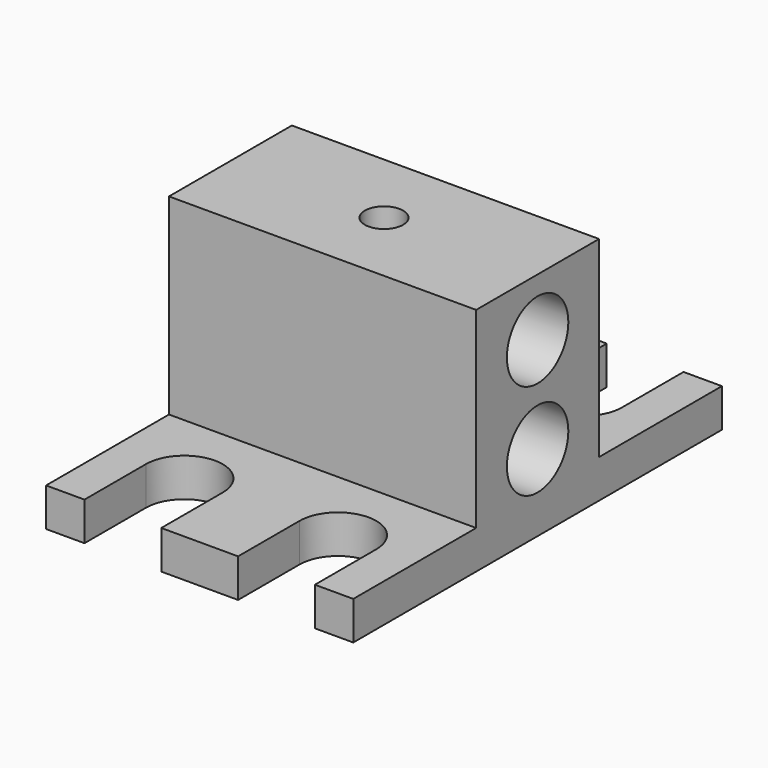
from build123d import *

# Parameters (mm, degrees)
SKETCH_R         = 3.175
PAD_DEPTH        = 25.4
SKETCH001_R      = 1.5875
POCKET_DEPTH     = 4.7625
HOLE_D           = 3.18262
HOLE_DEPTH       = 14.2875
HOLE_CBORE_D     = 6.35
HOLE_CBORE_DEPTH = 10.16
POCKET001_DEPTH  = 5
SKETCH004_R      = 1.6859
HOLE001_DEPTH    = 8.89


with BuildPart() as part:
    # Sketch → Pad (new body)
    with BuildSketch(Plane.YZ):
        Polygon((-19.05, 0), (19.05, 0), (19.05, 3.175), (6.35, 3.175), (6.35, 19.05), (-6.35, 19.05), (-6.35, 3.175), (-19.05, 3.175), align=None)
        with Locations((0, 6.35)):
            Circle(SKETCH_R, mode=Mode.SUBTRACT)
    extrude(amount=PAD_DEPTH)

    # Sketch001 (on Face5 of Pad) → Pocket (cut)
    with BuildSketch(Plane(origin=(0, 0, 19.05), x_dir=(0, -1, 0), z_dir=(0, 0, 1))):
        with Locations((0, 12.7)):
            Circle(SKETCH001_R)
    extrude(amount=-POCKET_DEPTH, mode=Mode.SUBTRACT)

    # Hole
    with Locations(Plane.YZ.offset(25.4)):
        with Locations((0, 14.2875)):
            CounterBoreHole(HOLE_D / 2, HOLE_CBORE_D / 2, HOLE_CBORE_DEPTH, depth=HOLE_DEPTH)

    # Sketch003 (on Face7 of Hole) → Pocket001 (cut)
    with BuildSketch(Plane(origin=(0, 0, 3.175), x_dir=(0, -1, 0), z_dir=(0, 0, 1))):
        with BuildLine():
            Line((25.4, 9.525), (12.7, 9.525))
            ThreePointArc((12.7, 9.525), (9.525, 6.35), (12.7, 3.175))
            Line((12.7, 3.175), (25.4, 3.175))
            Line((25.4, 3.175), (25.4, 9.525))
        make_face()
        with BuildLine():
            Line((25.4, 22.225), (12.7, 22.225))
            ThreePointArc((12.7, 22.225), (9.525, 19.05), (12.7, 15.875))
            Line((12.7, 15.875), (25.4, 15.875))
            Line((25.4, 15.875), (25.4, 22.225))
        make_face()
        with BuildLine():
            Line((-25.4, 22.225), (-12.7, 22.225))
            ThreePointArc((-12.7, 15.875), (-9.525, 19.05), (-12.7, 22.225))
            Line((-12.7, 15.875), (-25.4, 15.875))
            Line((-25.4, 15.875), (-25.4, 22.225))
        make_face()
        with BuildLine():
            Line((-25.4, 9.525), (-12.7, 9.525))
            ThreePointArc((-12.7, 3.175), (-9.525, 6.35), (-12.7, 9.525))
            Line((-12.7, 3.175), (-25.4, 3.175))
            Line((-25.4, 3.175), (-25.4, 9.525))
        make_face()
    extrude(amount=-POCKET001_DEPTH, mode=Mode.SUBTRACT)

    # Sketch004 (on Face2 of Pocket001) → Hole001 (cut)
    with BuildSketch(Plane(origin=(0, 0, 0), x_dir=(0, 1, 0), z_dir=(-1, 0, 0))):
        with Locations((0, -14.2875)):
            Circle(SKETCH004_R)
    extrude(amount=-HOLE001_DEPTH, mode=Mode.SUBTRACT)


solid = part.part
